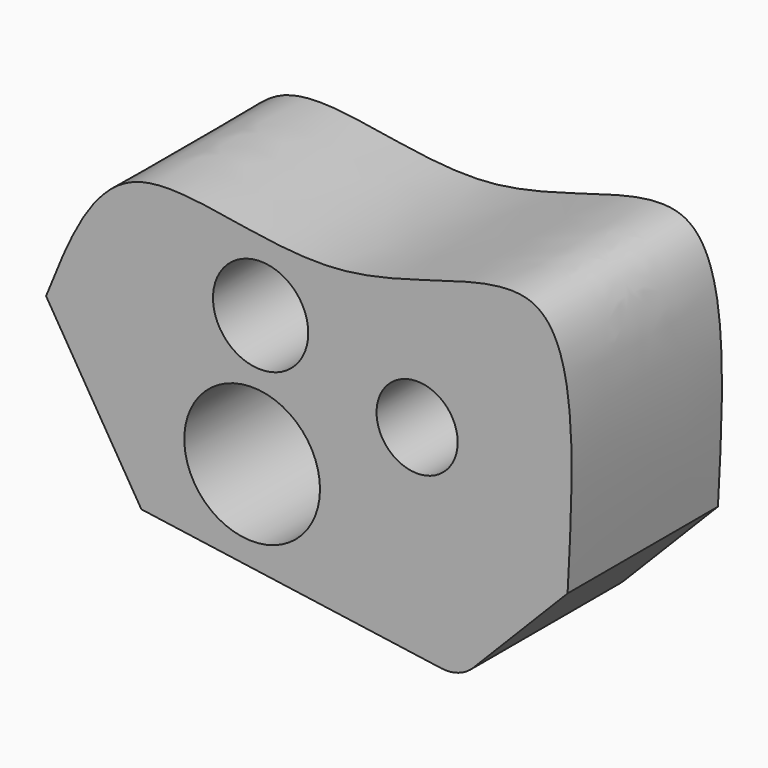
from build123d import *

# Parameters (mm, degrees)
F0_R     = 18.050487637
F0_R_2   = 10.7962905291
F0_R_3   = 12.6719479167
F1_DEPTH = 50
F2_R     = 10


with BuildPart() as f1:
    # F0 (on Front) → F1 (new body)
    with BuildSketch(Plane.XZ):
        with BuildLine():
            add(Edge.make_bspline(
                [(-68.0867659093, 11.0560087651), (-62.1241605878, 26.1059229723), (-49.313077038, 58.4417389335), (9.2746440149, 31.6775795029), (75.1691613719, 70.822435211), (72.2027717002, 15.5965229505), (70.6413116541, -13.4735133734)],
                knots=[0, 0, 0, 0, 0.2209195932, 0.4746615304, 0.7234702376, 1, 1, 1, 1], degree=3))
            Line((-68.0867659093, 11.0560087651), (-42.739597179, -30.6441781387))
            Line((-42.739597179, -30.6441781387), (42.023533143, -42.6363915635))
            Line((42.023533143, -42.6363915635), (70.6413116541, -13.4735133734))
        make_face()
        with Locations((-13.269550167, -10.4942182079)):
            Circle(F0_R, mode=Mode.SUBTRACT)
        with Locations((30.61536327, 12.4022578821)):
            Circle(F0_R_2, mode=Mode.SUBTRACT)
        with Locations((-11.0145937651, 25.0647049397)):
            Circle(F0_R_3, mode=Mode.SUBTRACT)
    extrude(amount=F1_DEPTH)

    # F2
    f2_edges = [f1.edges().sort_by_distance(p)[0] for p in [
        (42.023533, -25, -42.636392),
    ]]
    fillet(f2_edges, radius=F2_R)


solid = f1.part
